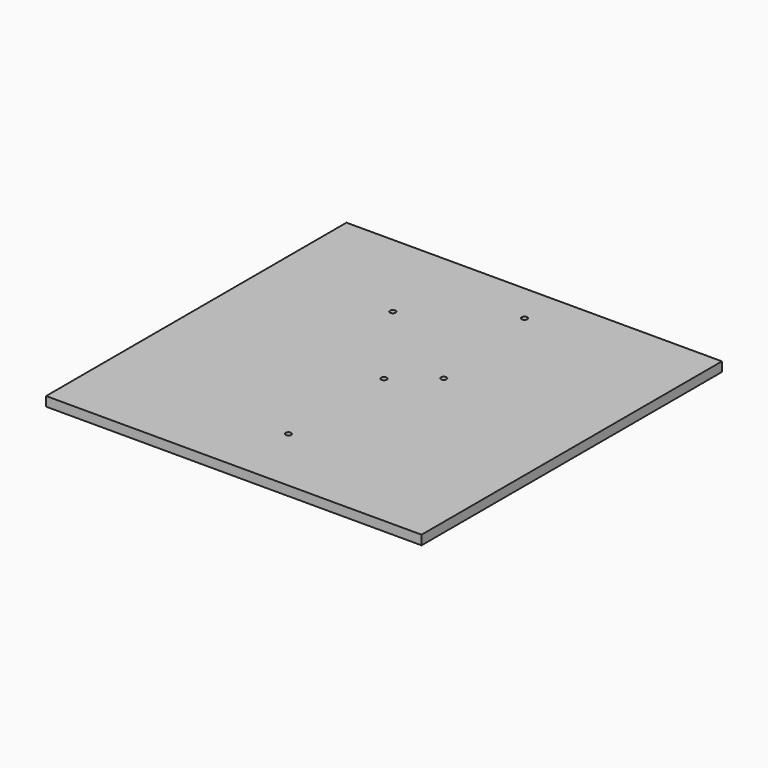
from build123d import *

# Parameters (mm, degrees)
F0_W     = 200
F0_H     = 200
F1_DEPTH = 5
F2_R     = 1.5
F3_DEPTH = 5.001


with BuildPart() as f1:
    # F0 (on Top) → F1 (new body)
    with BuildSketch(Plane.XY):
        Rectangle(F0_W, F0_H)
    extrude(amount=F1_DEPTH)

    # F2 (on face) → F3 (cut, through all)
    with BuildSketch(Plane.XY.offset(5)):
        Circle(F2_R)
        with Locations((0, -63.662)):
            Circle(F2_R)
        with Locations((11.662546, 79.001375)):
            Circle(F2_R)
        with Locations((-34.852075, 49.427142)):
            Circle(F2_R)
        with Locations((19.195754, 15.786653)):
            Circle(F2_R)
    extrude(amount=-F3_DEPTH, mode=Mode.SUBTRACT)


solid = f1.part
